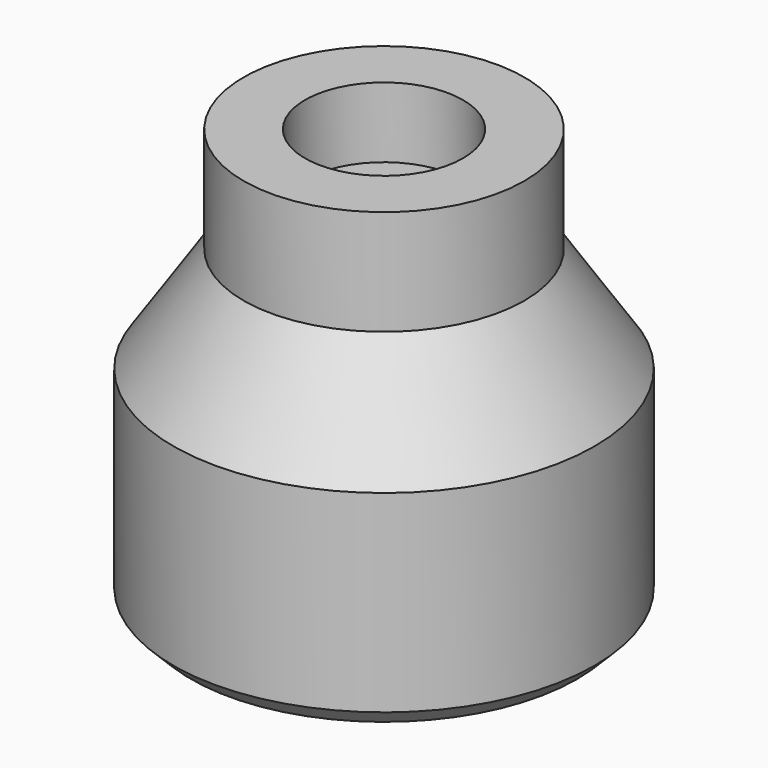
from build123d import *

# Parameters (mm, degrees)
F2_R     = 2.25
F3_DEPTH = 2
F4_SIZE  = 0.5


with BuildPart() as f1:
    # F0 (on Front) → F1 (revolve)
    with BuildSketch(Plane.XZ):
        Polygon((0, 12), (0, 0), (6, 0), (6, 6), (4, 9), (4, 12), align=None)
    revolve(axis=Axis((0, 0, 6), (0, 0, -1)))

    # F2 (on face) → F3 (cut)
    with BuildSketch(Plane.XY.offset(12)):
        Circle(F2_R)
    extrude(amount=-F3_DEPTH, mode=Mode.SUBTRACT)

    # F4
    f4_edges = [f1.edges().sort_by_distance(p)[0] for p in [
        (-6, 0, 0),
    ]]
    chamfer(f4_edges, length=F4_SIZE)


solid = f1.part
